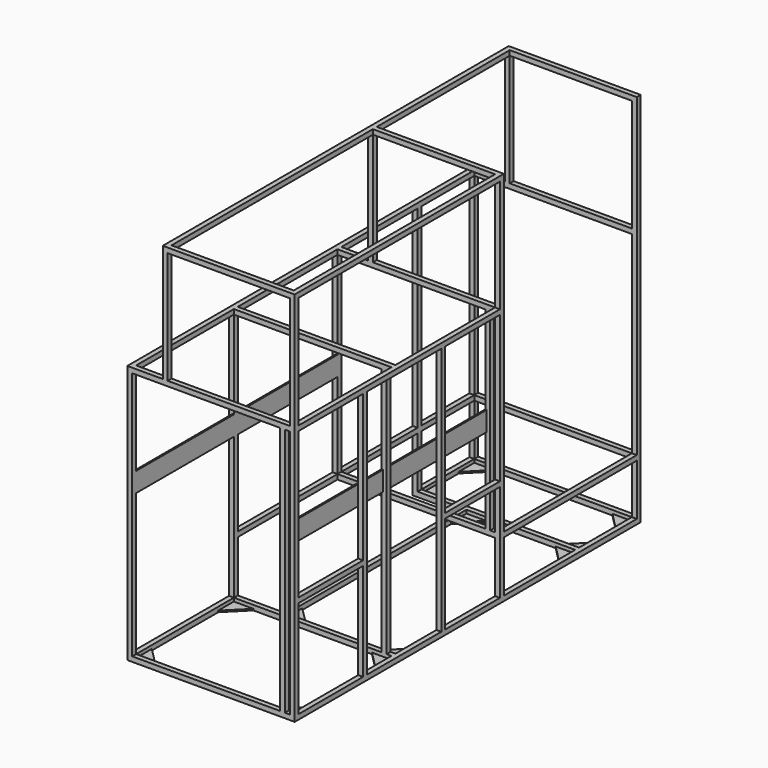
from build123d import *

# Parameters (mm, degrees)
F0_W      = 20
F0_H      = 20
F1_DEPTH  = 1770
F2_W      = 20
F2_H      = 20
F3_DEPTH  = 665
F4_W      = 20
F4_H      = 20
F5_DEPTH  = 520
F6_W      = 20
F6_H      = 20
F7_DEPTH  = 290
F8_W      = 20
F8_H      = 20
F9_DEPTH  = 645
F10_W     = 20
F10_H     = 20
F11_DEPTH = 645
F12_W     = 20
F12_H     = 20
F13_DEPTH = 920
F14_W     = 20
F14_H     = 20
F15_DEPTH = 1040
F16_W     = 20
F16_H     = 20
F17_DEPTH = 920
F18_W     = 20
F18_H     = 20
F19_DEPTH = 1030
F20_W     = 20
F20_H     = 20
F21_DEPTH = 920
F22_W     = 20
F22_H     = 20
F23_DEPTH = 645
F24_W     = 20
F24_H     = 20
F25_DEPTH = 790
F26_W     = 20
F26_H     = 20
F27_DEPTH = 500
F28_W     = 20
F28_H     = 20
F29_DEPTH = 645
F30_W     = 20
F30_H     = 20
F31_DEPTH = 270
F32_W     = 20
F32_H     = 20
F33_DEPTH = 645
F34_W     = 20
F34_H     = 20
F35_DEPTH = 680
F36_W     = 20
F36_H     = 20
F37_DEPTH = 645
F38_W     = 20
F38_H     = 20
F39_DEPTH = 270
F40_W     = 20
F40_H     = 20
F41_DEPTH = 1020
F43_W     = 20
F43_H     = 20
F44_DEPTH = 645
F42_W     = 20
F42_H     = 20
F45_DEPTH = 1020
F46_W     = 20
F46_H     = 20
F47_DEPTH = 790
F48_W     = 6
F48_H     = 80
F49_DEPTH = 1030
F50_W     = 6
F50_H     = 80
F51_DEPTH = 1030
F52_W     = 20
F52_H     = 20
F53_DEPTH = 480
F54_W     = 20
F54_H     = 20
F55_DEPTH = 1750
F56_W     = 20
F56_H     = 20
F57_DEPTH = 1030
F58_W     = 20
F58_H     = 20
F59_DEPTH = 500
F61_DEPTH = 6
F62_W     = 20
F62_H     = 20
F63_DEPTH = 1020
F64_W     = 20
F64_H     = 20
F65_DEPTH = 280
F66_W     = 20
F66_H     = 20
F67_DEPTH = 330


with BuildPart() as f1:
    # F0 (on Front) → F1 (new body)
    with BuildSketch(Plane.XZ):
        with Locations((10, 10)):
            Rectangle(F0_W, F0_H)
    extrude(amount=-F1_DEPTH)

    # F2 (on face) → F3 (join)
    with BuildSketch(Plane(origin=(0, 0, 0), x_dir=(0, -1, 0), z_dir=(-1, 0, 0))):
        with Locations((-10, 10)):
            Rectangle(F2_W, F2_H)
        with Locations((-1760, 10)):
            Rectangle(F2_W, F2_H)
    extrude(amount=F3_DEPTH)

    # F4 (on face) → F5 (join)
    with BuildSketch(Plane(origin=(0, 20, 0), x_dir=(-1, 0, 0), z_dir=(0, 1, 0))):
        with Locations((655, 10)):
            Rectangle(F4_W, F4_H)
    extrude(amount=F5_DEPTH)

    # F6 (on face) → F7 (join)
    with BuildSketch(Plane.XZ.offset(-1750)):
        with Locations((-655, 10)):
            Rectangle(F6_W, F6_H)
    extrude(amount=F7_DEPTH)

    # F8 (on face) → F9 (join, through all)
    with BuildSketch(Plane.YZ.offset(-645)):
        with Locations((530, 10)):
            Rectangle(F8_W, F8_H)
    extrude(amount=F9_DEPTH)

    # F10 (on face) → F11 (join, through all)
    with BuildSketch(Plane.YZ.offset(-645)):
        with Locations((1470, 10)):
            Rectangle(F10_W, F10_H)
    extrude(amount=F11_DEPTH)

    # F12 (on face) → F13 (join, through all)
    with BuildSketch(Plane.XZ.offset(-1460)):
        with Locations((-455, 10)):
            Rectangle(F12_W, F12_H)
    extrude(amount=F13_DEPTH)

    # F14 (on face) → F15 (join)
    with BuildSketch(Plane.XY.offset(20)):
        with Locations((10, 10)):
            Rectangle(F14_W, F14_H)
        with Locations((-655, 10)):
            Rectangle(F14_W, F14_H)
        with Locations((-655, 530)):
            Rectangle(F14_W, F14_H)
        with Locations((10, 1760)):
            Rectangle(F14_W, F14_H)
        with Locations((-655, 1470)):
            Rectangle(F14_W, F14_H)
        with Locations((-655, 1760)):
            Rectangle(F14_W, F14_H)
        with Locations((10, 1060)):
            Rectangle(F14_W, F14_H)
    extrude(amount=F15_DEPTH)

    # F16 (on face) → F17 (join, through all)
    with BuildSketch(Plane.XZ.offset(-1460)):
        with Locations((-655, 240)):
            Rectangle(F16_W, F16_H)
    extrude(amount=F17_DEPTH)

    # F18 (on face) → F19 (join, through all)
    with BuildSketch(Plane(origin=(0, 20, 0), x_dir=(-1, 0, 0), z_dir=(0, 1, 0))):
        with Locations((-10, 1050)):
            Rectangle(F18_W, F18_H)
    extrude(amount=F19_DEPTH)

    # F20 (on face) → F21 (join, through all)
    with BuildSketch(Plane(origin=(0, 540, 0), x_dir=(-1, 0, 0), z_dir=(0, 1, 0))):
        with Locations((655, 1050)):
            Rectangle(F20_W, F20_H)
    extrude(amount=F21_DEPTH)

    # F22 (on face) → F23 (join, through all)
    with BuildSketch(Plane(origin=(0, 0, 0), x_dir=(0, -1, 0), z_dir=(-1, 0, 0))):
        with Locations((-1060, 1050)):
            Rectangle(F22_W, F22_H)
    extrude(amount=F23_DEPTH)

    # F24 (on face) → F25 (join, through all)
    with BuildSketch(Plane(origin=(0, 0, 1040), x_dir=(1, 0, 0), z_dir=(0, 0, -1))):
        with Locations((-655, -1060)):
            Rectangle(F24_W, F24_H)
    extrude(amount=F25_DEPTH)

    # F26 (on face) → F27 (join, through all)
    with BuildSketch(Plane.XZ.offset(-520)):
        with Locations((-655, 1050)):
            Rectangle(F26_W, F26_H)
    extrude(amount=F27_DEPTH)

    # F28 (on face) → F29 (join, through all)
    with BuildSketch(Plane.YZ.offset(-645)):
        with Locations((10, 1050)):
            Rectangle(F28_W, F28_H)
    extrude(amount=F29_DEPTH)

    # F30 (on face) → F31 (join, through all)
    with BuildSketch(Plane(origin=(0, 1480, 0), x_dir=(-1, 0, 0), z_dir=(0, 1, 0))):
        with Locations((655, 240)):
            Rectangle(F30_W, F30_H)
    extrude(amount=F31_DEPTH)

    # F32 (on face) → F33 (join, through all)
    with BuildSketch(Plane.YZ.offset(-645)):
        with Locations((1760, 240)):
            Rectangle(F32_W, F32_H)
        with Locations((1060, 240)):
            Rectangle(F32_W, F32_H)
    extrude(amount=F33_DEPTH)

    # F34 (on face) → F35 (join, through all)
    with BuildSketch(Plane.XZ.offset(-1750)):
        with Locations((10, 240)):
            Rectangle(F34_W, F34_H)
    extrude(amount=F35_DEPTH)

    # F36 (on face) → F37 (join, through all)
    with BuildSketch(Plane.YZ.offset(-645)):
        with Locations((1760, 1050)):
            Rectangle(F36_W, F36_H)
    extrude(amount=F37_DEPTH)

    # F38 (on face) → F39 (join, through all)
    with BuildSketch(Plane(origin=(0, 1480, 0), x_dir=(-1, 0, 0), z_dir=(0, 1, 0))):
        with Locations((655, 1050)):
            Rectangle(F38_W, F38_H)
    extrude(amount=F39_DEPTH)

    # F40 (on face) → F41 (join, through all)
    with BuildSketch(Plane.XY.offset(20)):
        with Locations((-30, 10)):
            Rectangle(F40_W, F40_H)
    extrude(amount=F41_DEPTH)

    # F43 (on face) → F44 (join, through all)
    with BuildSketch(Plane.YZ.offset(-645)):
        with Locations((530, 1050)):
            Rectangle(F43_W, F43_H)
    extrude(amount=F44_DEPTH)

    # F42 (on face) → F45 (join, through all)
    with BuildSketch(Plane.XY.offset(20)):
        with Locations((-30, 530)):
            Rectangle(F42_W, F42_H)
    extrude(amount=F45_DEPTH)

    # F46 (on face) → F47 (join, through all)
    with BuildSketch(Plane.XY.offset(250)):
        with Locations((-30, 1060)):
            Rectangle(F46_W, F46_H)
    extrude(amount=F47_DEPTH)

    # F48 (on face) → F49 (join, through all)
    with BuildSketch(Plane.XZ.offset(-1050)):
        with Locations((-648, 640)):
            Rectangle(F48_W, F48_H)
    extrude(amount=F49_DEPTH)

    # F50 (on face) → F51 (join, through all)
    with BuildSketch(Plane.XZ.offset(-1050)):
        with Locations((-37, 640)):
            Rectangle(F50_W, F50_H)
    extrude(amount=F51_DEPTH)

    # F52 (on face) → F53 (join)
    with BuildSketch(Plane.XY.offset(1060)):
        with Locations((10, 10)):
            Rectangle(F52_W, F52_H)
        with Locations((10, 1060)):
            Rectangle(F52_W, F52_H)
        with Locations((10, 1760)):
            Rectangle(F52_W, F52_H)
        with Locations((-510, 10)):
            Rectangle(F52_W, F52_H)
        with Locations((-510, 1060)):
            Rectangle(F52_W, F52_H)
        with Locations((-510, 1760)):
            Rectangle(F52_W, F52_H)
    extrude(amount=F53_DEPTH)

    # F54 (on face) → F55 (join, through all)
    with BuildSketch(Plane.XZ.offset(-1750)):
        with Locations((-510, 1530)):
            Rectangle(F54_W, F54_H)
    extrude(amount=F55_DEPTH)

    # F56 (on face) → F57 (join, through all)
    with BuildSketch(Plane.XZ.offset(-1050)):
        with Locations((10, 1530)):
            Rectangle(F56_W, F56_H)
    extrude(amount=F57_DEPTH)

    # F58 (on face) → F59 (join, through all)
    with BuildSketch(Plane.YZ.offset(-500)):
        with Locations((10, 1530)):
            Rectangle(F58_W, F58_H)
        with Locations((1060, 1530)):
            Rectangle(F58_W, F58_H)
        with Locations((1760, 1530)):
            Rectangle(F58_W, F58_H)
    extrude(amount=F59_DEPTH)

    # F60 (on face) → F61 (join)
    with BuildSketch(Plane(origin=(0, 0, 0), x_dir=(1, 0, 0), z_dir=(0, 0, -1))):
        Polygon((-645, -100), (-565, -20), (-645, -20), align=None)
        Polygon((0, -100), (0, -20), (-80, -20), align=None)
        Polygon((-645, -440), (-645, -520), (-565, -520), align=None)
        Polygon((0, -520), (0, -440), (-80, -520), align=None)
        Polygon((0, -540), (-80, -540), (0, -620), align=None)
        Polygon((-445, -620), (-365, -540), (-445, -540), align=None)
        Polygon((-80, -1460), (0, -1460), (0, -1380), align=None)
        Polygon((-445, -1380), (-445, -1460), (-365, -1460), align=None)
        Polygon((0, -1560), (0, -1480), (-80, -1480), align=None)
        Polygon((-80, -1750), (0, -1750), (0, -1670), align=None)
        Polygon((-645, -1670), (-645, -1750), (-565, -1750), align=None)
        Polygon((-645, -1480), (-645, -1560), (-565, -1480), align=None)
    extrude(amount=-F61_DEPTH)

    # F62 (on face) → F63 (join, through all)
    with BuildSketch(Plane.XY.offset(20)):
        with Locations((10, 360)):
            Rectangle(F62_W, F62_H)
        with Locations((10, 760)):
            Rectangle(F62_W, F62_H)
    extrude(amount=F63_DEPTH)

    # F64 (on face) → F65 (join, through all)
    with BuildSketch(Plane(origin=(0, 770, 0), x_dir=(-1, 0, 0), z_dir=(0, 1, 0))):
        with Locations((-10, 430)):
            Rectangle(F64_W, F64_H)
    extrude(amount=F65_DEPTH)

    # F66 (on face) → F67 (join, through all)
    with BuildSketch(Plane(origin=(0, 20, 0), x_dir=(-1, 0, 0), z_dir=(0, 1, 0))):
        with Locations((-10, 430)):
            Rectangle(F66_W, F66_H)
    extrude(amount=F67_DEPTH)


solid = f1.part
